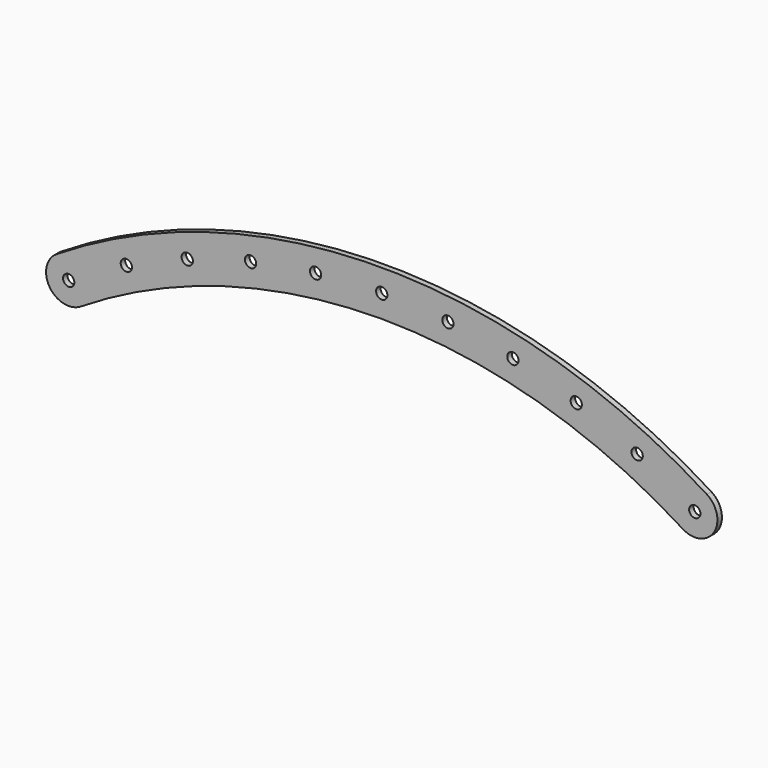
from build123d import *

# Parameters (mm, degrees)
F0_R     = 6.35
F1_DEPTH = 6.35


with BuildPart() as f1:
    # F0 (on Front) → F1 (new body)
    with BuildSketch(Plane.XZ):
        with BuildLine():
            ThreePointArc((689.715387, -21.48571), (724.74821, -13.547113), (716.809613, 21.48571))
            ThreePointArc((716.809613, 21.48571), (351.63125, 127), (-13.547113, 21.48571))
            ThreePointArc((-13.547113, 21.48571), (-21.48571, -13.547113), (13.547113, -21.48571))
            ThreePointArc((13.547113, -21.48571), (351.63125, 76.2), (689.715387, -21.48571))
        make_face()
        Circle(F0_R, mode=Mode.SUBTRACT)
        with Locations((64.770503, 35.920821)):
            Circle(F0_R, mode=Mode.SUBTRACT)
        with Locations((703.2625, 0)):
            Circle(F0_R, mode=Mode.SUBTRACT)
        with Locations((638.491997, 35.920821)):
            Circle(F0_R, mode=Mode.SUBTRACT)
        with Locations((133.16127, 64.350144)):
            Circle(F0_R, mode=Mode.SUBTRACT)
        with Locations((204.309192, 84.929181)):
            Circle(F0_R, mode=Mode.SUBTRACT)
        with Locations((277.316359, 97.398219)):
            Circle(F0_R, mode=Mode.SUBTRACT)
        with Locations((351.63125, 101.6)):
            Circle(F0_R, mode=Mode.SUBTRACT)
        with Locations((498.953308, 84.929181)):
            Circle(F0_R, mode=Mode.SUBTRACT)
        with Locations((570.10123, 64.350144)):
            Circle(F0_R, mode=Mode.SUBTRACT)
        with Locations((425.946141, 97.398219)):
            Circle(F0_R, mode=Mode.SUBTRACT)
    extrude(amount=F1_DEPTH)


solid = f1.part
